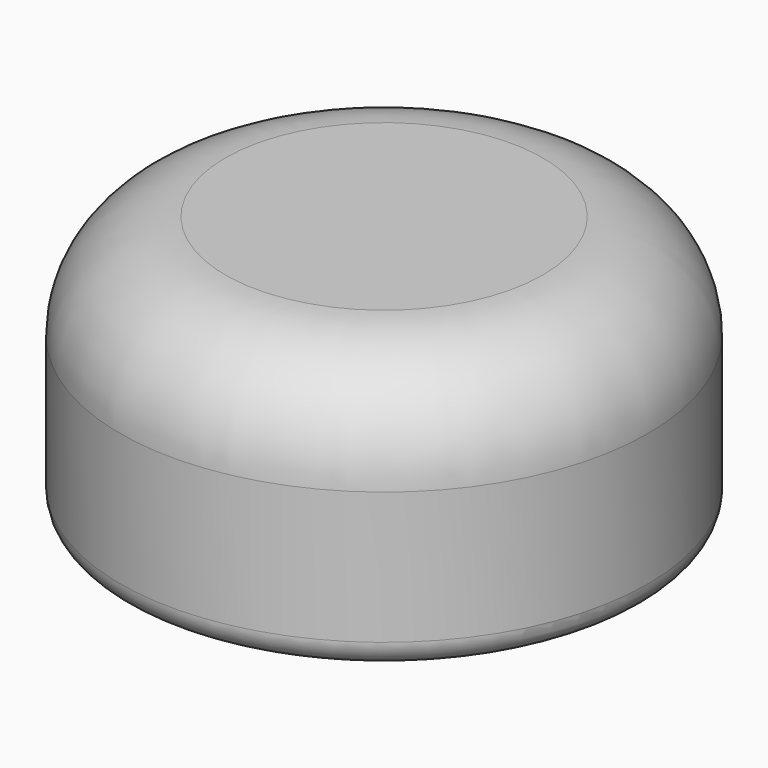
from build123d import *

# Parameters (mm, degrees)
F0_R     = 50.8
F0_R_2   = 38.1
F1_DEPTH = 50.8
F2_DEPTH = 38.1
F3_R     = 5.08
F4_R     = 20.2622288655
F5_DEPTH = 20.71222
F7_DEPTH = 34.26479


with BuildPart() as f1:
    # F0 (on Top) → F1 (new body)
    with BuildSketch(Plane.XY):
        Circle(F0_R)
        Circle(F0_R_2, mode=Mode.SUBTRACT)
        Circle(F0_R_2)
    extrude(amount=F1_DEPTH)

    # F0 (on Top) → F2 (cut)
    with BuildSketch(Plane.XY):
        Circle(F0_R_2)
    extrude(amount=F2_DEPTH, mode=Mode.SUBTRACT)

    # F3
    f3_edges = [f1.edges().sort_by_distance(p)[0] for p in [
        (-50.8, 0, 0),
        (-38.1, 0, 0),
    ]]
    fillet(f3_edges, radius=F3_R)

    # F4
    f4_edges = [f1.edges().sort_by_distance(p)[0] for p in [
        (-50.8, 0, 50.8),
    ]]
    fillet(f4_edges, radius=F4_R)


with BuildPart() as f5:
    # F0 (on Top) → F5 (new body)
    with BuildSketch(Plane.XY):
        Circle(F0_R_2)
    extrude(amount=F5_DEPTH)

    # F6 (on face) → F7 (cut)
    with BuildSketch(Plane.XY):
        with BuildLine():
            ThreePointArc((12.5767484106, 35.9643629085), (0, 38.1), (-12.5767484106, 35.9643629085))
            ThreePointArc((-12.5767484106, 35.9643629085), (0, 25.0294123173), (12.5767484106, 35.9643629085))
        make_face()
    extrude(amount=F7_DEPTH, mode=Mode.SUBTRACT)


solid = Compound([f1.part, f5.part])
